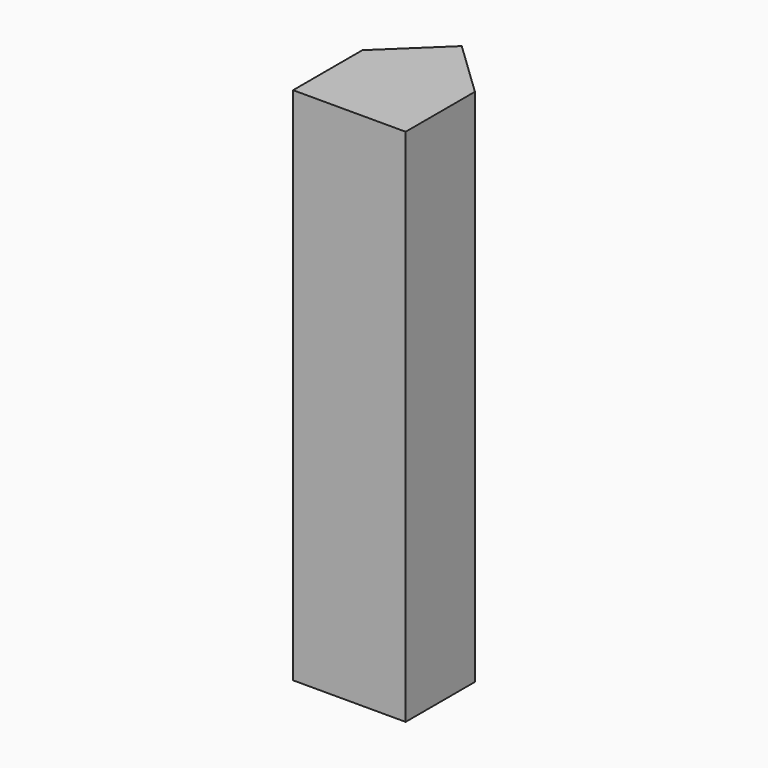
from build123d import *

# Parameters (mm, degrees)
F0_W     = 33.02
F0_H     = 25.4
F1_DEPTH = 152.4


with BuildPart() as f1:
    # F0 (on Top) → F1 (new body)
    with BuildSketch(Plane.XY):
        Polygon((-51.325518, 52.135691), (-18.305518, 52.135691), (-34.815518, 67.947063), align=None)
        with Locations((-34.815518, 39.435691)):
            Rectangle(F0_W, F0_H)
    extrude(amount=F1_DEPTH)


solid = f1.part
